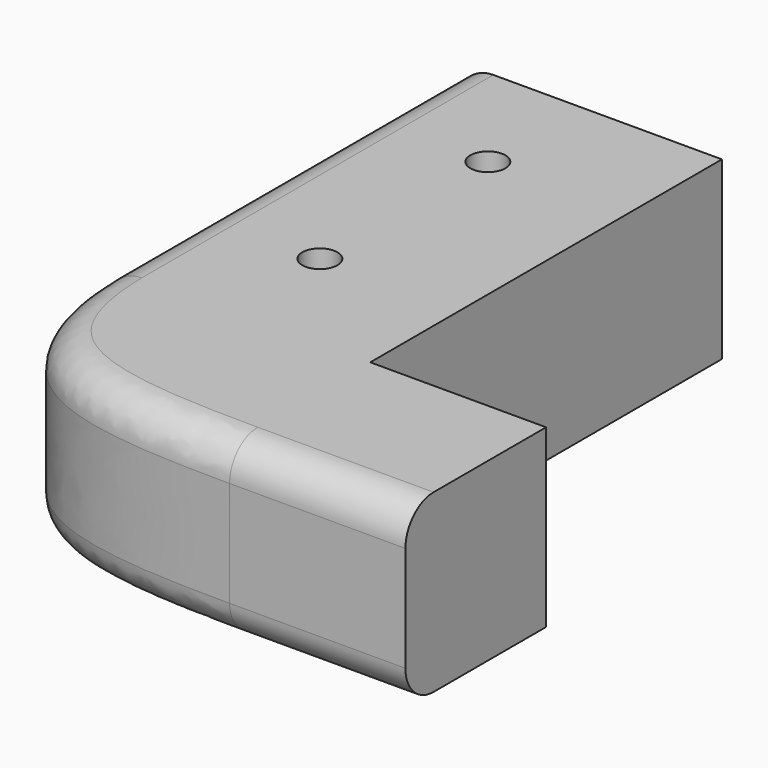
from build123d import *

# Parameters (mm, degrees)
F0_W     = 38.1
F0_H     = 63.5
F0_R     = 2.54
F0_W_2   = 25.4
F0_H_2   = 25.4
F1_DEPTH = 25.4
F2_R     = 5.08


with BuildPart() as f1:
    # F0 (on Top) → F1 (new body)
    with BuildSketch(Plane.XY):
        with Locations((-19.05, 31.75)):
            Rectangle(F0_W, F0_H)
        with Locations((-20.244129, 16.207738)):
            Circle(F0_R, mode=Mode.SUBTRACT)
        with Locations((-20.244129, 46.541594)):
            Circle(F0_R, mode=Mode.SUBTRACT)
        with Locations((12.7, -12.7)):
            Rectangle(F0_W_2, F0_H_2)
        with BuildLine():
            Line((0, -25.4), (0, 0))
            Line((0, 0), (-38.1, 0))
            add(Edge.make_bspline(
                [(-38.1, 0), (-37.680859, -22.843237), (-24.310233, -25.4), (0, -25.4)],
                knots=[0, 0, 0, 0, 45.790501, 45.790501, 45.790501, 45.790501], degree=3))
        make_face()
    extrude(amount=F1_DEPTH)

    # F2
    f2_edges = [f1.edges().sort_by_distance(p)[0] for p in [
        (-38.1, 31.75, 25.4),
        (-38.1, 31.75, 0),
        (-26.310812, -22.093817, 25.4),
        (-26.310812, -22.093817, 0),
    ]]
    fillet(f2_edges, radius=F2_R)


solid = f1.part
